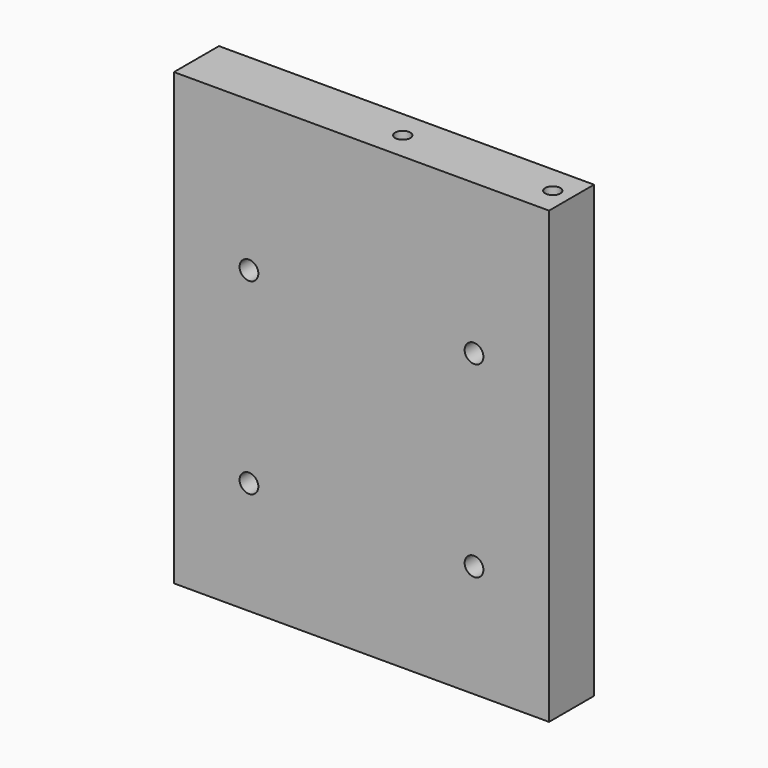
from build123d import *

# Parameters (mm, degrees)
F0_W     = 127
F0_H     = 152.4
F0_R     = 3.175
F1_DEPTH = 19.05
F3_D     = 5.1054
F3_DEPTH = 25.4
F3_TIP   = 1.5338169022
F5_D     = 5.1054
F5_DEPTH = 25.4
F5_TIP   = 1.5338169022
F6_D     = 5.1054
F6_DEPTH = 25.4
F6_TIP   = 1.5338169022


with BuildPart() as f1:
    # F0 (on Front) → F1 (new body)
    with BuildSketch(Plane.XZ):
        with Locations((-63.5, 76.2)):
            Rectangle(F0_W, F0_H)
        with Locations((-101.6, 38.1)):
            Circle(F0_R, mode=Mode.SUBTRACT)
        with Locations((-25.4, 38.1)):
            Circle(F0_R, mode=Mode.SUBTRACT)
        with Locations((-101.6, 101.6)):
            Circle(F0_R, mode=Mode.SUBTRACT)
        with Locations((-25.4, 101.6)):
            Circle(F0_R, mode=Mode.SUBTRACT)
    extrude(amount=F1_DEPTH)

    # F3
    with Locations(Plane(origin=(0, 0, 0), x_dir=(1, 0, 0), z_dir=(0, 0, -1))):
        with Locations((-101.6, 9.525), (-25.4, 9.525)):
            Hole(F3_D / 2, depth=F3_DEPTH)
            with Locations((0, 0, -(F3_DEPTH + F3_TIP / 2))):  # 118° drill point
                Cone(0, F3_D / 2, F3_TIP, mode=Mode.SUBTRACT)

    # F5
    with Locations(Plane.XY.offset(152.4)):
        with Locations((-57.15, -9.525)):
            Hole(F5_D / 2, depth=F5_DEPTH)
            with Locations((0, 0, -(F5_DEPTH + F5_TIP / 2))):  # 118° drill point
                Cone(0, F5_D / 2, F5_TIP, mode=Mode.SUBTRACT)

    # F6
    with Locations(Plane.XY.offset(152.4)):
        with Locations((-6.35, -9.525)):
            Hole(F6_D / 2, depth=F6_DEPTH)
            with Locations((0, 0, -(F6_DEPTH + F6_TIP / 2))):  # 118° drill point
                Cone(0, F6_D / 2, F6_TIP, mode=Mode.SUBTRACT)


solid = f1.part
